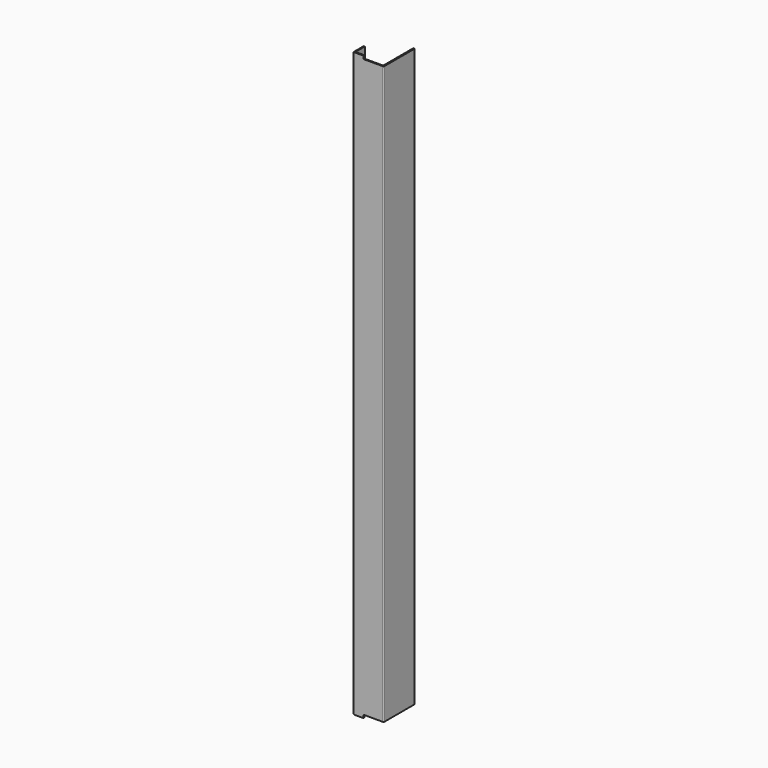
from build123d import *

# Parameters (mm, degrees)
F1_DEPTH = 2414
F2_W     = 92.1814972758
F2_H     = 150
F2_W_2   = 70
F2_W_3   = 4
F3_DEPTH = 141.501
F4_DEPTH = 139
F5_DEPTH = 139
F6_W     = 50
F6_H     = 2
F7_DEPTH = 25


with BuildPart() as f1:
    # F0 (on Top) → F1 (new body)
    with BuildSketch(Plane.XY):
        with BuildLine():
            Line((-55.2241730846, 112.5), (-59.2241730846, 112.5))
            Line((-59.2241730846, 112.5), (-59.2241730846, 4))
            ThreePointArc((-59.2241730846, 4), (-58.0526002093, 1.1715728753), (-55.2241730846, 0))
            Line((-55.2241730846, 0), (49.7758269154, 0))
            ThreePointArc((49.7758269154, 0), (52.6042540402, 1.1715728753), (53.7758269154, 4))
            Line((53.7758269154, 4), (53.7758269154, 141.5))
            Line((53.7758269154, 141.5), (48.7758269154, 141.5))
            Line((48.7758269154, 141.5), (48.7758269154, 8))
            ThreePointArc((48.7758269154, 8), (47.6042540402, 5.1715728753), (44.7758269154, 4))
            Line((44.7758269154, 4), (-51.2241730846, 4))
            ThreePointArc((-51.2241730846, 4), (-54.0526002093, 5.1715728753), (-55.2241730846, 8))
            Line((-55.2241730846, 8), (-55.2241730846, 112.5))
        make_face()
    extrude(amount=F1_DEPTH)

    # F2 (on face) → F3 (cut, through all)
    with BuildSketch(Plane.XZ):
        with Locations((99.8665755533, 2339)):
            Rectangle(F2_W, F2_H)
        with Locations((14.7758269154, 2339)):
            Rectangle(F2_W_2, F2_H)
        with Locations((51.7758269154, 2339)):
            Rectangle(F2_W_3, F2_H)
        with Locations((51.7758269154, 75)):
            Rectangle(F2_W_3, F2_H)
        with Locations((99.8665755533, 75)):
            Rectangle(F2_W, F2_H)
        with Locations((14.7758269154, 75)):
            Rectangle(F2_W_2, F2_H)
    extrude(amount=-F3_DEPTH, mode=Mode.SUBTRACT)

    # F4 (cut): a face of the model
    f4_faces = [f1.faces().sort_by_distance(p)[0] for p in [
        (-21.4148556619, 2, 2414),
    ]]
    extrude(f4_faces, amount=-F4_DEPTH, mode=Mode.SUBTRACT)

    # F5 (cut): a face of the model
    f5_faces = [f1.faces().sort_by_distance(p)[0] for p in [
        (-21.4148556619, 2, 0),
    ]]
    extrude(f5_faces, amount=-F5_DEPTH, mode=Mode.SUBTRACT)

    # F6 (on face) → F7 (cut)
    with BuildSketch(Plane.YZ.offset(-55.2241730846)):
        Polygon((50, 139), (112.5, 139), (112.5, 222), (50, 222), (50, 141), align=None)
        with Locations((25, 140)):
            Rectangle(F6_W, F6_H)
        Polygon((112.5, 2192), (112.5, 2275), (50, 2275), (50, 2273), (50, 2192), align=None)
        with Locations((25, 2274)):
            Rectangle(F6_W, F6_H)
    extrude(amount=-F7_DEPTH, mode=Mode.SUBTRACT)


solid = f1.part
